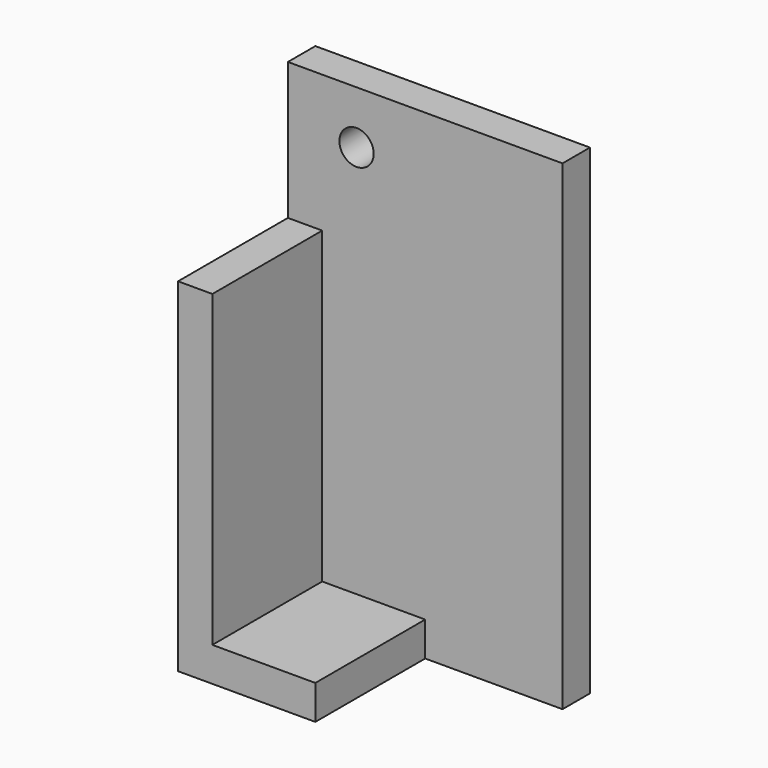
from build123d import *

# Parameters (mm, degrees)
F0_W     = 50.8
F0_H     = 88.9
F1_DEPTH = 31.75
F2_W     = 25.4
F2_H     = 82.55
F3_DEPTH = 44.45
F4_W     = 25.4
F4_H     = 25.4
F5_DEPTH = 25.4
F6_W     = 25.4
F6_H     = 6.35
F7_DEPTH = 25.4
F8_R     = 3.175
F9_DEPTH = 25.4


with BuildPart() as f1:
    # F0 (on Front) → F1 (new body)
    with BuildSketch(Plane.XZ):
        Rectangle(F0_W, F0_H)
    extrude(amount=F1_DEPTH)

    # F2 (on face) → F3 (cut)
    with BuildSketch(Plane.YZ.offset(25.4)):
        with Locations((-19.05, 3.175)):
            Rectangle(F2_W, F2_H)
    extrude(amount=-F3_DEPTH, mode=Mode.SUBTRACT)

    # F4 (on face) → F5 (cut)
    with BuildSketch(Plane(origin=(-25.4, 0, 0), x_dir=(0, -1, 0), z_dir=(-1, 0, 0))):
        with Locations((19.05, 31.75)):
            Rectangle(F4_W, F4_H)
    extrude(amount=-F5_DEPTH, mode=Mode.SUBTRACT)

    # F6 (on face) → F7 (cut)
    with BuildSketch(Plane.XZ.offset(31.75)):
        with Locations((12.7, -41.275)):
            Rectangle(F6_W, F6_H)
    extrude(amount=-F7_DEPTH, mode=Mode.SUBTRACT)

    # F8 (on face) → F9 (cut)
    with BuildSketch(Plane(origin=(0, 0, 0), x_dir=(-1, 0, 0), z_dir=(0, 1, 0))):
        with Locations((12.7, 34.658268)):
            Circle(F8_R)
    extrude(amount=-F9_DEPTH, mode=Mode.SUBTRACT)


solid = f1.part
